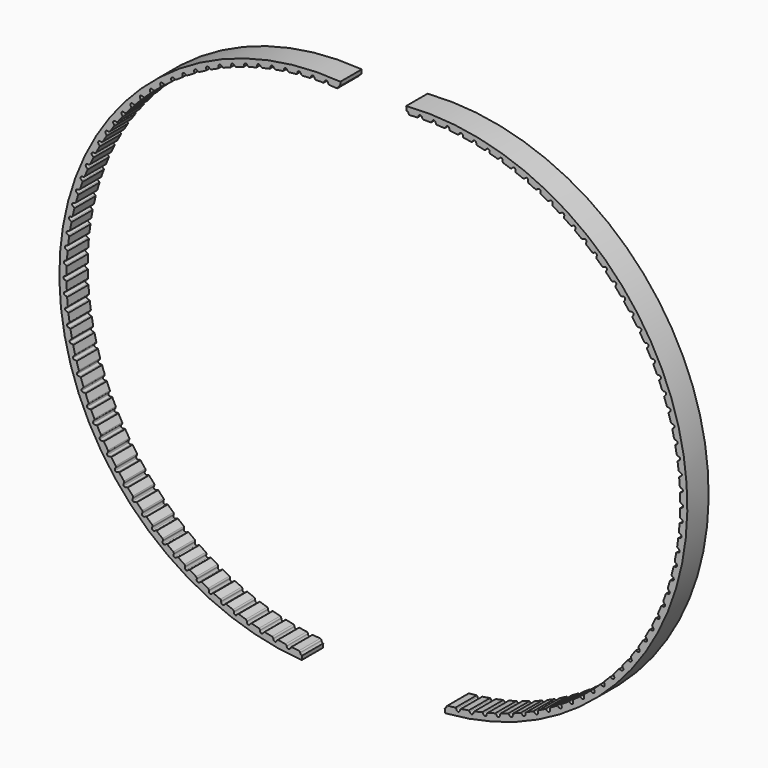
from build123d import *

# Parameters (mm, degrees)
F1_DEPTH = 10


with BuildPart() as f1:
    # F0 (on Front) → F1 (new body)
    with BuildSketch(Plane.XZ):
        with BuildLine():
            Line((26.7709992604, -112.2110329628), (26.9231018809, -113.7521742785))
            ThreePointArc((26.9231018809, -113.7521742785), (117.5491132953, -8.5425317569), (12.3413948205, 82.085713276))
            Line((12.3413948205, 82.085713276), (12.4561209293, 80.541834318))
            add(Edge.make_bspline(
                [(12.4893397314, 80.5442623854), (12.4726995917, 80.5435824122), (12.4561209293, 80.541834318)],
                knots=[0, 0, 0, 0.0462586498, 0.0462586498, 0.0462586498], degree=2, weights=[1, 0.9997325291, 1]))
            add(Edge.make_bspline(
                [(13.2469133122, 79.8186685051), (13.0734741082, 80.5681321176), (12.4893397314, 80.5442623854)],
                knots=[4.9589597933, 4.9589597933, 4.9589597933, 6.2831853072, 6.2831853072, 6.2831853072], degree=2, weights=[1, 0.7886951024, 1]))
            ThreePointArc((13.2469133122, 79.8186685051), (13.3681260333, 79.6168699252), (13.5459222227, 79.4625854295))
            ThreePointArc((13.5459222227, 79.4625854295), (14.9822503124, 79.543430276), (16.4196333325, 79.6026276076))
            ThreePointArc((16.4196333325, 79.6026276076), (16.7218000872, 79.7628192719), (16.9214265788, 80.0405158344))
            add(Edge.make_bspline(
                [(17.6288884757, 80.7877164189), (17.067763984, 80.7946784393), (16.9214265788, 80.0405158344)],
                knots=[0, 0, 0, 1.3242255138, 1.3242255138, 1.3242255138], degree=2, weights=[1, 0.7886951024, 1]))
            add(Edge.make_bspline(
                [(18.3467706598, 80.0228312124), (18.2134653554, 80.7804634185), (17.6288884757, 80.7877164189)],
                knots=[4.9589597933, 4.9589597933, 4.9589597933, 6.2831853072, 6.2831853072, 6.2831853072], degree=2, weights=[1, 0.7886951024, 1]))
            ThreePointArc((18.3467706598, 80.0228312124), (18.4570714263, 79.8148674379), (18.6264042679, 79.6513389103))
            ThreePointArc((18.6264042679, 79.6513389103), (20.0649993822, 79.6556246704), (21.5034958039, 79.6382374509))
            ThreePointArc((21.5034958039, 79.6382374509), (21.8137600451, 79.782120103), (22.0278832202, 80.048798529))
            add(Edge.make_bspline(
                [(22.7741100685, 80.7572874421), (22.2141513948, 80.794103861), (22.0278832202, 80.048798529)],
                knots=[0, 0, 0, 1.3242255138, 1.3242255138, 1.3242255138], degree=2, weights=[1, 0.7886951024, 1]))
            add(Edge.make_bspline(
                [(23.4502659409, 79.9552790596), (23.3574724044, 80.7189322685), (22.7741100685, 80.7572874421)],
                knots=[4.9589597933, 4.9589597933, 4.9589597933, 6.2831853072, 6.2831853072, 6.2831853072], degree=2, weights=[1, 0.7886951024, 1]))
            ThreePointArc((23.4502659409, 79.9552790596), (23.5493420932, 79.7417395864), (23.7097315948, 79.5694305664))
            ThreePointArc((23.7097315948, 79.5694305664), (25.1465158795, 79.4971450915), (26.5820481283, 79.403222607))
            ThreePointArc((26.5820481283, 79.403222607), (26.8995303784, 79.5303883959), (27.1275432816, 79.7852927563))
            add(Edge.make_bspline(
                [(27.9104198201, 80.4530617092), (27.3532142281, 80.5196281665), (27.1275432816, 79.7852927563)],
                knots=[0, 0, 0, 1.3242255138, 1.3242255138, 1.3242255138], degree=2, weights=[1, 0.7886951024, 1]))
            add(Edge.make_bspline(
                [(28.5429327435, 79.6162035306), (28.4909140083, 80.3837130843), (27.9104198201, 80.4530617092)],
                knots=[4.9589597933, 4.9589597933, 4.9589597933, 6.2831853072, 6.2831853072, 6.2831853072], degree=2, weights=[1, 0.7886951024, 1]))
            ThreePointArc((28.5429327435, 79.6162035306), (28.6305034396, 79.3976936595), (28.7814949597, 79.2170925757))
            ThreePointArc((28.7814949597, 79.2170925757), (30.2123956936, 79.068440767), (31.6408945975, 78.8982492508))
            ThreePointArc((31.6408945975, 78.8982492508), (31.9646949184, 79.0083377113), (32.2059512224, 79.2507454521))
            add(Edge.make_bspline(
                [(33.0232583026, 79.8759015811), (32.4703852521, 79.9720293869), (32.2059512224, 79.2507454521)],
                knots=[0, 0, 0, 1.3242255138, 1.3242255138, 1.3242255138], degree=2, weights=[1, 0.7886951024, 1]))
            add(Edge.make_bspline(
                [(33.6103353504, 79.0065657718), (33.5992388692, 79.7757560812), (33.0232583026, 79.8759015811)],
                knots=[4.9589597933, 4.9589597933, 4.9589597933, 6.2831853072, 6.2831853072, 6.2831853072], degree=2, weights=[1, 0.7886951024, 1]))
            ThreePointArc((33.6103353504, 79.0065657718), (33.6861523616, 78.7837048928), (33.8273178983, 78.5953236786))
            ThreePointArc((33.8273178983, 78.5953236786), (35.2482790378, 78.3707269057), (36.6656953614, 78.1247487843))
            ThreePointArc((36.6656953614, 78.1247487843), (36.9948959061, 78.2174478586), (37.2487117436, 78.4466718487))
            add(Edge.make_bspline(
                [(38.0981326197, 79.0274430809), (37.5511592895, 79.1528597505), (37.2487117436, 78.4466718487)],
                knots=[0, 0, 0, 1.3242255138, 1.3242255138, 1.3242255138], degree=2, weights=[1, 0.7886951024, 1]))
            add(Edge.make_bspline(
                [(38.6381096582, 78.1280938677), (38.6679668853, 78.8967845792), (38.0981326197, 79.0274430809)],
                knots=[4.9589597933, 4.9589597933, 4.9589597933, 6.2831853072, 6.2831853072, 6.2831853072], degree=2, weights=[1, 0.7886951024, 1]))
            ThreePointArc((38.6381096582, 78.1280938677), (38.701958073, 77.9015137042), (38.8328974773, 77.7058863467))
            ThreePointArc((38.8328974773, 77.7058863467), (40.2398911537, 77.4059812535), (41.6422070764, 77.0849137786))
            ThreePointArc((41.6422070764, 77.0849137786), (41.9758746901, 77.1599607011), (42.2415305926, 77.3753511802))
            add(Edge.make_bspline(
                [(43.1206574889, 77.9100912564), (42.5811343343, 78.0644412826), (42.2415305926, 77.3753511802)],
                knots=[0, 0, 0, 1.3242255138, 1.3242255138, 1.3242255138], degree=2, weights=[1, 0.7886951024, 1]))
            add(Edge.make_bspline(
                [(43.6120038946, 76.9832779424), (43.6827301963, 77.7492901187), (43.1206574889, 77.9100912564)],
                knots=[4.9589597933, 4.9589597933, 4.9589597933, 6.2831853072, 6.2831853072, 6.2831853072], degree=2, weights=[1, 0.7886951024, 1]))
            ThreePointArc((43.6120038946, 76.9832779424), (43.6637027276, 76.7536207604), (43.7840448375, 76.5513017865))
            ThreePointArc((43.7840448375, 76.5513017865), (45.1730827744, 76.1769384867), (46.5563232794, 75.7816917588))
            ThreePointArc((46.5563232794, 75.7816917588), (46.8935121449, 75.838873801), (47.1702550819, 76.0398202213))
            add(Edge.make_bspline(
                [(48.0765960177, 76.5270133627), (47.5460523757, 76.7098592236), (47.1702550819, 76.0398202213)],
                knots=[0, 0, 0, 1.3242255138, 1.3242255138, 1.3242255138], degree=2, weights=[1, 0.7886951024, 1]))
            add(Edge.make_bspline(
                [(48.5179190157, 75.5753631009), (48.6293139108, 76.3365253972), (48.0765960177, 76.5270133627)],
                knots=[4.9589597933, 4.9589597933, 4.9589597933, 6.2831853072, 6.2831853072, 6.2831853072], degree=2, weights=[1, 0.7886951024, 1]))
            ThreePointArc((48.5179190157, 75.5753631009), (48.5573217211, 75.3432798887), (48.6667254138, 75.1348427936))
            ThreePointArc((48.6667254138, 75.1348427936), (50.0338702322, 74.6870824605), (51.394114374, 74.2187768496))
            ThreePointArc((51.394114374, 74.2187768496), (51.733868693, 74.2579319226), (52.0209142065, 74.4438646797))
            add(Edge.make_bspline(
                [(52.95190006, 74.8821298844), (52.4318398141, 75.0929532836), (52.0209142065, 74.4438646797)],
                knots=[0, 0, 0, 1.3242255138, 1.3242255138, 1.3242255138], degree=2, weights=[1, 0.7886951024, 1]))
            add(Edge.make_bspline(
                [(53.3419486724, 73.9083402309), (53.4936963997, 74.66249505), (52.95190006, 74.8821298844)],
                knots=[4.9589597933, 4.9589597933, 4.9589597933, 6.2831853072, 6.2831853072, 6.2831853072], degree=2, weights=[1, 0.7886951024, 1]))
            ThreePointArc((53.3419486724, 73.9083402309), (53.3689435588, 73.6744888536), (53.4670987176, 73.4605244748))
            ThreePointArc((53.4670987176, 73.4605244748), (54.8084750971, 72.9406363338), (56.1418671159, 72.4005993029))
            ThreePointArc((56.1418671159, 72.4005993029), (56.4832238177, 72.4216164175), (56.7797582461, 72.5920084648))
            add(Edge.make_bspline(
                [(57.7327500366, 72.9801034225), (57.2246473542, 73.2183067581), (56.7797582461, 72.5920084648)],
                knots=[0, 0, 0, 1.3242255138, 1.3242255138, 1.3242255138], degree=2, weights=[1, 0.7886951024, 1]))
            add(Edge.make_bspline(
                [(58.0704186282, 71.9869346898), (58.2620890425, 72.7319442979), (57.7327500366, 72.9801034225)],
                knots=[4.9589597933, 4.9589597933, 4.9589597933, 6.2831853072, 6.2831853072, 6.2831853072], degree=2, weights=[1, 0.7886951024, 1]))
            ThreePointArc((58.0704186282, 71.9869346898), (58.0849291759, 71.7519780244), (58.1715575693, 71.5330928673))
            ThreePointArc((58.1715575693, 71.5330928673), (59.4833632327, 70.9425505978), (60.7861234839, 70.3323129406))
            ThreePointArc((60.7861234839, 70.3323129406), (61.128114956, 70.3351325215), (61.4332977402, 70.4895008642))
            add(Edge.make_bspline(
                [(62.405594109, 70.8263254775), (61.9108892623, 71.0912335363), (61.4332977402, 70.4895008642)],
                knots=[0, 0, 0, 1.3242255138, 1.3242255138, 1.3242255138], degree=2, weights=[1, 0.7886951024, 1]))
            add(Edge.make_bspline(
                [(62.6899255215, 69.8165929103), (62.9209753122, 70.5503454968), (62.405594109, 70.8263254775)],
                knots=[4.9589597933, 4.9589597933, 4.9589597933, 6.2831853072, 6.2831853072, 6.2831853072], degree=2, weights=[1, 0.7886951024, 1]))
            ThreePointArc((62.6899255215, 69.8165929103), (62.6919105986, 69.5811969672), (62.7667666691, 69.3580114854))
            ThreePointArc((62.7667666691, 69.3580114854), (64.0452831608, 68.6984890436), (65.313718829, 68.019780545))
            ThreePointArc((65.313718829, 68.019780545), (65.6553756593, 68.0043945998), (65.9683417255, 68.1423016641))
            add(Edge.make_bspline(
                [(66.957186593, 68.4269011671), (66.4772818766, 68.7177630384), (65.9683417255, 68.1423016641)],
                knots=[0, 0, 0, 1.3242255138, 1.3242255138, 1.3242255138], degree=2, weights=[1, 0.7886951024, 1]))
            add(Edge.make_bspline(
                [(67.1873748581, 67.4034669621), (67.4571490893, 68.1238826255), (66.957186593, 68.4269011671)],
                knots=[4.9589597933, 4.9589597933, 4.9589597933, 6.2831853072, 6.2831853072, 6.2831853072], degree=2, weights=[1, 0.7886951024, 1]))
            ThreePointArc((67.1873748581, 67.4034669621), (67.1768288376, 67.1682989965), (67.2397003976, 66.9414458336))
            ThreePointArc((67.2397003976, 66.9414458336), (68.4813036236, 66.2148127076), (69.7118191901, 65.4695572405))
            ThreePointArc((69.7118191901, 65.4695572405), (70.0521729152, 65.4360093823), (70.3720351271, 65.5570642556))
            add(Edge.make_bspline(
                [(71.374625505, 65.7886319201), (70.910881261, 66.1046231243), (70.3720351271, 65.5570642556)],
                knots=[0, 0, 0, 1.3242255138, 1.3242255138, 1.3242255138], degree=2, weights=[1, 0.7886951024, 1]))
            add(Edge.make_bspline(
                [(71.5500181292, 64.7543971128), (71.8577520966, 65.4594337566), (71.374625505, 65.7886319201)],
                knots=[4.9589597933, 4.9589597933, 4.9589597933, 6.2831853072, 6.2831853072, 6.2831853072], degree=2, weights=[1, 0.7886951024, 1]))
            ThreePointArc((71.5500181292, 64.7543971128), (71.526970905, 64.5201237339), (71.5776797382, 64.2902459297))
            ThreePointArc((71.5776797382, 64.2902459297), (72.7788502393, 63.4985618401), (73.9679576739, 62.6888719122))
            ThreePointArc((73.9679576739, 62.6888719122), (74.3060435243, 62.637257236), (74.6318951978, 62.7411167752))
            add(Edge.make_bspline(
                [(75.6453891347, 62.9189961974), (75.1991198965, 63.2592210232), (74.6318951978, 62.7411167752)],
                knots=[0, 0, 0, 1.3242255138, 1.3242255138, 1.3242255138], degree=2, weights=[1, 0.7886951024, 1]))
            add(Edge.make_bspline(
                [(75.7654889483, 61.8768924386), (76.1103103466, 62.56455156), (75.6453891347, 62.9189961974)],
                knots=[4.9589597933, 4.9589597933, 4.9589597933, 6.2831853072, 6.2831853072, 6.2831853072], degree=2, weights=[1, 0.7886951024, 1]))
            ThreePointArc((75.7654889483, 61.8768924386), (75.7300058504, 61.6441777198), (75.768408217, 61.4119268881))
            ThreePointArc((75.768408217, 61.4119268881), (76.9257411449, 60.5574359493), (78.0700697936, 59.6856067146))
            ThreePointArc((78.0700697936, 59.6856067146), (78.4049294281, 59.6160715279), (78.7358469011, 59.7024413318))
            add(Edge.make_bspline(
                [(79.7573715384, 59.8261282932), (79.3298423047, 60.1896223363), (78.7358469011, 59.7024413318)],
                knots=[0, 0, 0, 1.3242255138, 1.3242255138, 1.3242255138], degree=2, weights=[1, 0.7886951024, 1]))
            add(Edge.make_bspline(
                [(79.8218381056, 58.7791095393), (80.202769501, 59.4474418937), (79.7573715384, 59.8261282932)],
                knots=[4.9589597933, 4.9589597933, 4.9589597933, 6.2831853072, 6.2831853072, 6.2831853072], degree=2, weights=[1, 0.7886951024, 1]))
            ThreePointArc((79.8218381056, 58.7791095393), (79.7740197146, 58.5486131357), (79.800006759, 58.3146476167))
            ThreePointArc((79.800006759, 58.3146476167), (80.9102215278, 57.3997719761), (82.0065276666, 56.4682747294))
            ThreePointArc((82.0065276666, 56.4682747294), (82.3372118892, 56.3810161372), (82.6722571402, 56.4496513811))
            add(Edge.make_bspline(
                [(83.6989168554, 56.5187952777), (83.2913395042, 56.9045281747), (82.6722571402, 56.4496513811)],
                knots=[0, 0, 0, 1.3242255138, 1.3242255138, 1.3242255138], degree=2, weights=[1, 0.7886951024, 1]))
            add(Edge.make_bspline(
                [(83.7075674386, 55.4698294171), (84.1235290397, 56.1169405438), (83.6989168554, 56.5187952777)],
                knots=[4.9589597933, 4.9589597933, 4.9589597933, 6.2831853072, 6.2831853072, 6.2831853072], degree=2, weights=[1, 0.7886951024, 1]))
            ThreePointArc((83.7075674386, 55.4698294171), (83.6475493009, 55.2422046958), (83.66104736, 55.00718769))
            ThreePointArc((83.66104736, 55.00718769), (84.7209969453, 54.0345206621), (85.7661729753, 53.0459958335))
            ThreePointArc((85.7661729753, 53.0459958335), (86.0917444257, 52.9412611798), (86.4299677326, 52.9919673097))
            add(Edge.make_bspline(
                [(87.4588523471, 53.0063721455), (87.0723822008, 53.4132504946), (86.4299677326, 52.9919673097)],
                knots=[0, 0, 0, 1.3242255138, 1.3242255138, 1.3242255138], degree=2, weights=[1, 0.7886951024, 1]))
            add(Edge.make_bspline(
                [(87.4116624254, 51.9584325859), (87.8614751438, 52.5824881781), (87.4588523471, 53.0063721455)],
                knots=[4.9589597933, 4.9589597933, 4.9589597933, 6.2831853072, 6.2831853072, 6.2831853072], degree=2, weights=[1, 0.7886951024, 1]))
            ThreePointArc((87.4116624254, 51.9584325859), (87.3396146689, 51.7343247739), (87.340585481, 51.4989224627))
            ThreePointArc((87.340585481, 51.4989224627), (88.3472653405, 50.4712211778), (89.3383485968, 49.4284708483))
            ThreePointArc((89.3383485968, 49.4284708483), (89.6578844073, 49.3065570148), (89.9983270394, 49.3391902988))
            add(Edge.make_bspline(
                [(91.0265200679, 49.2988152416), (90.662252618, 49.725685702), (89.9983270394, 49.3391902988)],
                knots=[0, 0, 0, 1.3242255138, 1.3242255138, 1.3242255138], degree=2, weights=[1, 0.7886951024, 1]))
            add(Edge.make_bspline(
                [(90.9236234062, 48.2548724815), (91.406012199, 48.854103586), (91.0265200679, 49.2988152416)],
                knots=[4.9589597933, 4.9589597933, 4.9589597933, 6.2831853072, 6.2831853072, 6.2831853072], degree=2, weights=[1, 0.7886951024, 1]))
            ThreePointArc((90.9236234062, 48.2548724815), (90.8397502582, 48.0349168368), (90.8281910714, 47.7997964936))
            ThreePointArc((90.8281910714, 47.7997964936), (91.7787476617, 46.7199740827), (92.712928811, 45.6259540414))
            ThreePointArc((92.712928811, 45.6259540414), (93.0255232227, 45.4872066061), (93.3672201583, 45.5016745415))
            add(Edge.make_bspline(
                [(94.391807076, 45.406634039), (94.0507748783, 45.8522866), (93.3672201583, 45.5016745415)],
                knots=[0, 0, 0, 1.3242255138, 1.3242255138, 1.3242255138], degree=2, weights=[1, 0.7886951024, 1]))
            add(Edge.make_bspline(
                [(94.2334953461, 44.3696472476), (94.7470928298, 44.9423552785), (94.391807076, 45.406634039)],
                knots=[4.9589597933, 4.9589597933, 4.9589597933, 6.2831853072, 6.2831853072, 6.2831853072], degree=2, weights=[1, 0.7886951024, 1]))
            ThreePointArc((94.2334953461, 44.3696472476), (94.1380345541, 44.1544672584), (94.1139781342, 43.9202953573))
            ThreePointArc((94.1139781342, 43.9202953573), (95.0057169994, 42.7914126943), (95.8803480038, 41.6492240599))
            ThreePointArc((95.8803480038, 41.6492240599), (96.1851149338, 41.4940363175), (96.5270975959, 41.4902978934))
            add(Edge.make_bspline(
                [(97.5451740999, 41.3408613481), (97.228343847, 41.804032759), (96.5270975959, 41.4902978934)],
                knots=[0, 0, 0, 1.3242255138, 1.3242255138, 1.3242255138], degree=2, weights=[1, 0.7886951024, 1]))
            add(Edge.make_bspline(
                [(97.3318960536, 40.3137699771), (97.8752463803, 40.8583315314), (97.5451740999, 41.3408613481)],
                knots=[4.9589597933, 4.9589597933, 4.9589597933, 6.2831853072, 6.2831853072, 6.2831853072], degree=2, weights=[1, 0.7886951024, 1]))
            ThreePointArc((97.3318960536, 40.3137699771), (97.2251182115, 40.1039755944), (97.188632749, 39.8714159211))
            ThreePointArc((97.188632749, 39.8714159211), (98.0190261584, 38.6966729466), (98.8316277813, 37.5095533768))
            ThreePointArc((98.8316277813, 37.5095533768), (99.1277033346, 37.3383652239), (99.4690023361, 37.3164310372))
            add(Edge.make_bspline(
                [(100.477682578, 37.1130220433), (100.1859523598, 37.5923993945), (99.4690023361, 37.3164310372)],
                knots=[0, 0, 0, 1.3242255138, 1.3242255138, 1.3242255138], degree=2, weights=[1, 0.7886951024, 1]))
            add(Edge.make_bspline(
                [(100.210042775, 36.0987374948), (100.7816057592, 36.6136089536), (100.477682578, 37.1130220433)],
                knots=[4.9589597933, 4.9589597933, 4.9589597933, 6.2831853072, 6.2831853072, 6.2831853072], degree=2, weights=[1, 0.7886951024, 1]))
            ThreePointArc((100.210042775, 36.0987374948), (100.0922505564, 35.8949234035), (100.0434394732, 35.6646351738))
            ThreePointArc((100.0434394732, 35.6646351738), (100.8101335865, 34.4473618244), (101.5584024203, 33.2186763386))
            ThreePointArc((101.5584024203, 33.2186763386), (101.8449473387, 33.0319730265), (102.1845952305, 32.9919052521))
            add(Edge.make_bspline(
                [(103.1810199964, 32.7351003945), (102.915216754, 33.2293248387), (102.1845952305, 32.9919052521)],
                knots=[0, 0, 0, 1.3242255138, 1.3242255138, 1.3242255138], degree=2, weights=[1, 0.7886951024, 1]))
            add(Edge.make_bspline(
                [(102.859777091, 31.7364977683), (103.4579325753, 32.2202196724), (103.1810199964, 32.7351003945)],
                knots=[4.9589597933, 4.9589597933, 4.9589597933, 6.2831853072, 6.2831853072, 6.2831853072], degree=2, weights=[1, 0.7886951024, 1]))
            ThreePointArc((102.859777091, 31.7364977683), (102.7313043905, 31.5392417016), (102.6703060471, 31.3118776924))
            ThreePointArc((102.6703060471, 31.3118776924), (103.3711275865, 30.0555244616), (104.0529425819, 28.7887559024))
            ThreePointArc((104.0529425819, 28.7887559024), (104.3291446226, 28.587066662), (104.6661786359, 28.5289788763))
            add(Edge.make_bspline(
                [(105.6475234517, 28.2195060962), (105.4084006331, 28.7271767006), (104.6661786359, 28.5289788763)],
                knots=[0, 0, 0, 1.3242255138, 1.3242255138, 1.3242255138], degree=2, weights=[1, 0.7886951024, 1]))
            add(Edge.make_bspline(
                [(105.2735880416, 27.2394160399), (105.8966404893, 27.6906172271), (105.6475234517, 28.2195060962)],
                knots=[4.9589597933, 4.9589597933, 4.9589597933, 6.2831853072, 6.2831853072, 6.2831853072], degree=2, weights=[1, 0.7886951024, 1]))
            ThreePointArc((105.2735880416, 27.2394160399), (105.1347990292, 27.0492771416), (105.061786332, 26.8254818409))
            ThreePointArc((105.061786332, 26.8254818409), (105.6947487426, 25.5336099985), (106.3081772209, 24.2323491589))
            ThreePointArc((106.3081772209, 24.2323491589), (106.5732534592, 24.0162457003), (106.9067182345, 23.9403025595))
            add(Edge.make_bspline(
                [(107.8702013716, 23.5790390911), (107.6584367965, 24.0987168083), (106.9067182345, 23.9403025595)],
                knots=[0, 0, 0, 1.3242255138, 1.3242255138, 1.3242255138], degree=2, weights=[1, 0.7886951024, 1]))
            add(Edge.make_bspline(
                [(107.4446334175, 22.6202397764), (108.0908167187, 23.037641268), (107.8702013716, 23.5790390911)],
                knots=[4.9589597933, 4.9589597933, 4.9589597933, 6.2831853072, 6.2831853072, 6.2831853072], degree=2, weights=[1, 0.7886951024, 1]))
            ThreePointArc((107.4446334175, 22.6202397764), (107.2959215057, 22.437757016), (107.211101417, 22.2181647958))
            ThreePointArc((107.211101417, 22.2181647958), (107.7744104982, 20.8944362928), (108.3177136298, 19.5623717382))
            ThreePointArc((108.3177136298, 19.5623717382), (108.5709126784, 19.33246663), (108.8998629735, 19.2388834032))
            add(Edge.make_bspline(
                [(109.8427533343, 18.826853287), (109.6589472724, 19.357065034), (108.8998629735, 19.2388834032)],
                knots=[0, 0, 0, 1.3242255138, 1.3242255138, 1.3242255138], degree=2, weights=[1, 0.7886951024, 1]))
            add(Edge.make_bspline(
                [(109.3667591547, 17.8920625349), (110.0342416327, 18.2744811608), (109.8427533343, 18.826853287)],
                knots=[4.9589597933, 4.9589597933, 4.9589597933, 6.2831853072, 6.2831853072, 6.2831853072], degree=2, weights=[1, 0.7886951024, 1]))
            ThreePointArc((109.3667591547, 17.8920625349), (109.2085458835, 17.7177531794), (109.1121588352, 17.5029864978))
            ThreePointArc((109.1121588352, 17.5029864978), (109.6042178262, 16.1511535866), (110.0758555592, 14.7920611985))
            ThreePointArc((110.0758555592, 14.7920611985), (110.3164596978, 14.5490061318), (110.6399630674, 14.4380480907))
            add(Edge.make_bspline(
                [(111.5595879267, 13.9764192711), (111.4042613962, 14.515662105), (110.6399630674, 14.4380480907)],
                knots=[0, 0, 0, 1.3242255138, 1.3242255138, 1.3242255138], degree=2, weights=[1, 0.7886951024, 1]))
            add(Edge.make_bspline(
                [(111.0345167789, 13.0682868473), (111.7214063821, 13.4146386005), (111.5595879267, 13.9764192711)],
                knots=[4.9589597933, 4.9589597933, 4.9589597933, 6.2831853072, 6.2831853072, 6.2831853072], degree=2, weights=[1, 0.7886951024, 1]))
            ThreePointArc((111.0345167789, 13.0682868473), (110.8672506211, 12.9026449956), (110.7595698327, 12.6933126321))
            ThreePointArc((110.7595698327, 12.6933126321), (111.1789839388, 11.3172072299), (111.5776193649, 9.9349395034))
            ThreePointArc((111.5776193649, 9.9349395034), (111.804946575, 9.6794234441), (112.1220860136, 9.5514051115))
            add(Edge.make_bspline(
                [(113.0158385948, 9.0414861253), (112.8894318857, 9.5882315038), (112.1220860136, 9.5514051115)],
                knots=[0, 0, 0, 1.3242255138, 1.3242255138, 1.3242255138], degree=2, weights=[1, 0.7886951024, 1]))
            add(Edge.make_bspline(
                [(112.44317885, 8.16258623), (113.1475285151, 8.4718893389), (113.0158385948, 9.0414861253)],
                knots=[4.9589597933, 4.9589597933, 4.9589597933, 6.2831853072, 6.2831853072, 6.2831853072], degree=2, weights=[1, 0.7886951024, 1]))
            ThreePointArc((112.44317885, 8.16258623), (112.2673339396, 8.0060814119), (112.148664644, 7.8027767418))
            ThreePointArc((112.148664644, 7.8027767418), (112.4942449904, 6.4062995688), (112.8187481342, 5.0047746921))
            ThreePointArc((112.8187481342, 5.0047746921), (113.032154032, 4.7375219283), (113.3420305734, 4.592806186))
            add(Edge.make_bspline(
                [(114.2073774379, 4.036042454), (114.1102488636, 4.5887405678), (113.3420305734, 4.592806186)],
                knots=[0, 0, 0, 1.3242255138, 1.3242255138, 1.3242255138], degree=2, weights=[1, 0.7886951024, 1]))
            add(Edge.make_bspline(
                [(113.5887523623, 3.1888664244), (114.3085655337, 3.4602441355), (114.2073774379, 4.036042454)],
                knots=[4.9589597933, 4.9589597933, 4.9589597933, 6.2831853072, 6.2831853072, 6.2831853072], degree=2, weights=[1, 0.7886951024, 1]))
            ThreePointArc((113.5887523623, 3.1888664244), (113.4048271509, 3.0419422698), (113.2755057291, 2.8452415823))
            ThreePointArc((113.2755057291, 2.8452415823), (113.5462727306, 1.4323511048), (113.7957237527, 0.0155418523))
            ThreePointArc((113.7957237527, 0.0155418523), (113.9946034161, -0.262690059), (114.2963386816, -0.4236929986))
            add(Edge.make_bspline(
                [(115.1308269095, -1.025723269), (115.0632517917, -0.4686391026), (114.2963386816, -0.4236929986)],
                knots=[0, 0, 0, 1.3242255138, 1.3242255138, 1.3242255138], degree=2, weights=[1, 0.7886951024, 1]))
            add(Edge.make_bspline(
                [(114.4679900631, -1.8387740204), (115.2012263522, -1.6060909565), (115.1308269095, -1.025723269)],
                knots=[4.9589597933, 4.9589597933, 4.9589597933, 6.2831853072, 6.2831853072, 6.2831853072], degree=2, weights=[1, 0.7886951024, 1]))
            ThreePointArc((114.4679900631, -1.8387740204), (114.2765059067, -1.975701039), (114.1368989343, -2.1652401745))
            ThreePointArc((114.1368989343, -2.1652401745), (114.3320850726, -3.5905389649), (114.5057768769, -5.0186164935))
            ThreePointArc((114.5057768769, -5.0186164935), (114.6895665599, -5.3070388737), (114.9823052481, -5.4838726301))
            add(Edge.make_bspline(
                [(115.7835693919, -6.1294629188), (115.7457392795, -5.5695718155), (114.9823052481, -5.4838726301)],
                knots=[0, 0, 0, 1.3242255138, 1.3242255138, 1.3242255138], degree=2, weights=[1, 0.7886951024, 1]))
            add(Edge.make_bspline(
                [(115.0783996578, -6.9060837114), (115.8229806267, -6.7127548602), (115.7835693919, -6.1294629188)],
                knots=[4.9589597933, 4.9589597933, 4.9589597933, 6.2831853072, 6.2831853072, 6.2831853072], degree=2, weights=[1, 0.7886951024, 1]))
            ThreePointArc((115.0783996578, -6.9060837114), (114.8798993389, -7.0326254595), (114.7304025471, -7.2144657735))
            ThreePointArc((114.7304025471, -7.2144657735), (114.8494545459, -8.6481327126), (114.9468947841, -10.0834304763))
            ThreePointArc((114.9468947841, -10.0834304763), (115.1150735148, -10.3812257609), (115.3979858261, -10.5733890797))
            add(Edge.make_bspline(
                [(116.1637546156, -11.2607093909), (116.1557767421, -10.6995984228), (115.3979858261, -10.5733890797)],
                knots=[0, 0, 0, 1.3242255138, 1.3242255138, 1.3242255138], degree=2, weights=[1, 0.7886951024, 1]))
            add(Edge.make_bspline(
                [(115.418250874, -11.9986988085), (116.1720659269, -11.8452721817), (116.1637546156, -11.2607093909)],
                knots=[4.9589597933, 4.9589597933, 4.9589597933, 6.2831853072, 6.2831853072, 6.2831853072], degree=2, weights=[1, 0.7886951024, 1]))
            ThreePointArc((115.418250874, -11.9986988085), (115.2132970634, -12.1144965898), (115.0543342171, -12.2881226364))
            ThreePointArc((115.0543342171, -12.2881226364), (115.0969146104, -13.7260938394), (115.1178270776, -15.1645433308))
            ThreePointArc((115.1178270776, -15.1645433308), (115.2699181352, -15.4708673866), (115.5422021239, -15.6778155601))
            add(Edge.make_bspline(
                [(116.2703049042, -16.4049176096), (116.2922018839, -15.8441773067), (115.5422021239, -15.6778155601)],
                knots=[0, 0, 0, 1.3242255138, 1.3242255138, 1.3242255138], degree=2, weights=[1, 0.7886951024, 1]))
            add(Edge.make_bspline(
                [(115.4865803664, -17.1021837412), (116.2474927328, -16.9890942431), (116.2703049042, -16.4049176096)],
                knots=[4.9589597933, 4.9589597933, 4.9589597933, 6.2831853072, 6.2831853072, 6.2831853072], degree=2, weights=[1, 0.7886951024, 1]))
            ThreePointArc((115.4865803664, -17.1021837412), (115.2757540281, -17.2069093142), (115.1077757246, -17.3718289315))
            ThreePointArc((115.1077757246, -17.3718289315), (115.0737638138, -18.8100283128), (115.0180892313, -20.2475520905))
            ThreePointArc((115.0180892313, -20.2475520905), (115.1536614971, -20.5615366088), (115.4145453447, -20.7826830197))
            add(Edge.make_bspline(
                [(116.1029182293, -21.5475057578), (116.1546279928, -20.9887255995), (115.4145453447, -20.7826830197)],
                knots=[0, 0, 0, 1.3242255138, 1.3242255138, 1.3242255138], degree=2, weights=[1, 0.7886951024, 1]))
            add(Edge.make_bspline(
                [(115.2831944478, -22.2020721267), (116.0490472388, -22.1296403219), (116.1029182293, -21.5475057578)],
                knots=[4.9589597933, 4.9589597933, 4.9589597933, 6.2831853072, 6.2831853072, 6.2831853072], degree=2, weights=[1, 0.7886951024, 1]))
            ThreePointArc((115.2831944478, -22.2020721267), (115.0670931918, -22.2954286355), (114.890575584, -22.4511743409))
            ThreePointArc((114.890575584, -22.4511743409), (114.7800677795, -23.8855251681), (114.647963963, -25.3180484148))
            ThreePointArc((114.647963963, -25.3180484148), (114.7666331427, -25.6388033723), (115.0153773455, -25.8735211572))
            add(Edge.make_bspline(
                [(115.6620690668, -26.6738966108), (115.7434450371, -26.11866052), (115.0153773455, -25.8735211572)],
                knots=[0, 0, 0, 1.3242255138, 1.3242255138, 1.3242255138], degree=2, weights=[1, 0.7886951024, 1]))
            add(Edge.make_bspline(
                [(114.8086696376, -27.2839077775), (115.5772919604, -27.2523389817), (115.6620690668, -26.6738966108)],
                knots=[4.9589597933, 4.9589597933, 4.9589597933, 6.2831853072, 6.2831853072, 6.2831853072], degree=2, weights=[1, 0.7886951024, 1]))
            ThreePointArc((114.8086696376, -27.2839077775), (114.5879060264, -27.3656305929), (114.4033494726, -27.5117609082))
            ThreePointArc((114.4033494726, -27.5117609082), (114.2166590207, -28.9381973581), (114.0085004329, -30.361659431))
            ThreePointArc((114.0085004329, -30.361659431), (114.1099301458, -30.6882756129), (114.3458296114, -30.9358994388))
            add(Edge.make_bspline(
                [(114.9490070514, -31.7695588566), (115.0598185595, -31.2194407105), (114.3458296114, -30.9358994388)],
                knots=[0, 0, 0, 1.3242255138, 1.3242255138, 1.3242255138], degree=2, weights=[1, 0.7886951024, 1]))
            add(Edge.make_bspline(
                [(114.0643510279, -32.3332856782), (114.8335641389, -32.3426693767), (114.9490070514, -31.7695588566)],
                knots=[4.9589597933, 4.9589597933, 4.9589597933, 6.2831853072, 6.2831853072, 6.2831853072], degree=2, weights=[1, 0.7886951024, 1]))
            ThreePointArc((114.0643510279, -32.3332856782), (113.83955084, -32.403143148), (113.6474784858, -32.539243851))
            ThreePointArc((113.6474784858, -32.539243851), (113.385134581, -33.9537225345), (113.1015112699, -35.3640884756))
            ThreePointArc((113.1015112699, -35.3640884756), (113.1854140025, -35.695640053), (113.4078000482, -35.9554680031))
            add(Edge.make_bspline(
                [(113.9657534349, -36.820048287), (114.1056863735, -36.2766074552), (113.4078000482, -35.9554680031)],
                knots=[0, 0, 0, 1.3242255138, 1.3242255138, 1.3242255138], degree=2, weights=[1, 0.7886951024, 1]))
            add(Edge.make_bspline(
                [(113.0523484708, -37.3358928187), (113.8199719519, -37.3862024122), (113.9657534349, -36.820048287)],
                knots=[4.9589597933, 4.9589597933, 4.9589597933, 6.2831853072, 6.2831853072, 6.2831853072], degree=2, weights=[1, 0.7886951024, 1]))
            ThreePointArc((113.0523484708, -37.3358928187), (112.8241489266, -37.3936869242), (112.625105222, -37.5193722227))
            ThreePointArc((112.625105222, -37.5193722227), (112.2878515066, -38.9178836463), (111.9295674333, -40.3111556202))
            ThreePointArc((111.9295674333, -40.3111556202), (111.9957053542, -40.646702774), (112.2039476026, -40.9179983378))
            add(Edge.make_bspline(
                [(112.7150953565, -41.8110487411), (112.8837530705, -41.2758256656), (112.2039476026, -40.9179983378)],
                knots=[0, 0, 0, 1.3242255138, 1.3242255138, 1.3242255138], degree=2, weights=[1, 0.7886951024, 1]))
            add(Edge.make_bspline(
                [(111.7755305973, -42.2775487653), (112.5393885363, -42.368641646), (112.7150953565, -41.8110487411)],
                knots=[4.9589597933, 4.9589597933, 4.9589597933, 6.2831853072, 6.2831853072, 6.2831853072], degree=2, weights=[1, 0.7886951024, 1]))
            ThreePointArc((111.7755305973, -42.2775487653), (111.5445785534, -42.323115683), (111.3391277094, -42.4380293083))
            ThreePointArc((111.3391277094, -42.4380293083), (110.9279201655, -43.8166092394), (110.4959909252, -45.1888378653))
            ThreePointArc((110.4959909252, -45.1888378653), (110.5441765593, -45.5274294507), (110.7376847251, -45.8094236115))
            add(Edge.make_bspline(
                [(111.2005779424, -46.7284126857), (111.3974823532, -46.2029245145), (110.7376847251, -45.8094236115)],
                knots=[0, 0, 0, 1.3242255138, 1.3242255138, 1.3242255138], degree=2, weights=[1, 0.7886951024, 1]))
            add(Edge.make_bspline(
                [(110.2375166866, -47.1442458575), (110.9954438452, -47.2758638127), (111.2005779424, -46.7284126857)],
                knots=[4.9589597933, 4.9589597933, 4.9589597933, 6.2831853072, 6.2831853072, 6.2831853072], degree=2, weights=[1, 0.7886951024, 1]))
            ThreePointArc((110.2375166866, -47.1442458575), (110.0044668015, -47.1774564229), (109.7931911908, -47.2812726399))
            ThreePointArc((109.7931911908, -47.2812726399), (109.3091954311, -48.6360133439), (108.8048453741, -49.9833088908))
            ThreePointArc((108.8048453741, -49.9833088908), (108.8349421339, -50.323985133), (109.0131676972, -50.6158785478))
            add(Edge.make_bspline(
                [(109.4264942568, -51.5582013185), (109.6510872174, -51.043937605), (109.0131676972, -50.6158785478)],
                knots=[0, 0, 0, 1.3242255138, 1.3242255138, 1.3242255138], degree=2, weights=[1, 0.7886951024, 1]))
            add(Edge.make_bspline(
                [(108.442666406, -51.9221889136), (109.1925143574, -52.0939588578), (109.4264942568, -51.5582013185)],
                knots=[4.9589597933, 4.9589597933, 4.9589597933, 6.2831853072, 6.2831853072, 6.2831853072], degree=2, weights=[1, 0.7886951024, 1]))
            ThreePointArc((108.442666406, -51.9221889136), (108.208179285, -51.9429489878), (107.9916777913, -52.0353735182))
            ThreePointArc((107.9916777913, -52.0353735182), (107.4362657543, -53.3624348354), (106.8609245156, -54.6809782475))
            ThreePointArc((106.8609245156, -54.6809782475), (106.8728470886, -55.0227734629), (107.0352848498, -55.3237387279))
            add(Edge.make_bspline(
                [(107.3978731325, -56.2867240789), (107.6495180099, -55.7851425594), (107.0352848498, -55.3237387279)],
                knots=[0, 0, 0, 1.3242255138, 1.3242255138, 1.3242255138], degree=2, weights=[1, 0.7886951024, 1]))
            add(Edge.make_bspline(
                [(106.3960674538, -56.597834335), (107.1357106725, -56.8092693676), (107.3978731325, -56.2867240789)],
                knots=[4.9589597933, 4.9589597933, 4.9589597933, 6.2831853072, 6.2831853072, 6.2831853072], degree=2, weights=[1, 0.7886951024, 1]))
            ThreePointArc((106.3960674538, -56.597834335), (106.1608077762, -56.6060850713), (105.9396940964, -56.6868559276))
            ThreePointArc((105.9396940964, -56.6868559276), (105.3144401578, -57.9824761585), (104.6697386048, -59.2685298813))
            ThreePointArc((104.6697386048, -59.2685298813), (104.6634531951, -59.6104752141), (104.8096427066, -59.9196592107))
            add(Edge.make_bspline(
                [(105.1204649167, -60.9005774554), (105.398448396, -60.4130999172), (104.8096427066, -59.9196592107)],
                knots=[0, 0, 0, 1.3242255138, 1.3242255138, 1.3242255138], degree=2, weights=[1, 0.7886951024, 1]))
            add(Edge.make_bspline(
                [(104.1035211371, -61.1579284965), (104.8308630239, -61.4084292821), (105.1204649167, -60.9005774554)],
                knots=[4.9589597933, 4.9589597933, 4.9589597933, 6.2831853072, 6.2831853072, 6.2831853072], degree=2, weights=[1, 0.7886951024, 1]))
            ThreePointArc((104.1035211371, -61.1579284965), (103.8681557718, -61.1536465073), (103.6430566768, -61.2225347358))
            ThreePointArc((103.6430566768, -61.2225347358), (102.9497331868, -62.4830413042), (102.237498796, -63.7329598787))
            ThreePointArc((102.237498796, -63.7329598787), (102.2130232204, -64.0740860478), (102.3425500921, -64.3906123602))
            add(Edge.make_bspline(
                [(102.6007251703, -65.3866829793), (102.9042592771, -64.9146912305), (102.3425500921, -64.3906123602)],
                knots=[0, 0, 0, 1.3242255138, 1.3242255138, 1.3242255138], degree=2, weights=[1, 0.7886951024, 1]))
            add(Edge.make_bspline(
                [(101.5715259273, -65.5895453161), (102.2845047527, -65.8784017829), (102.6007251703, -65.3866829793)],
                knots=[4.9589597933, 4.9589597933, 4.9589597933, 6.2831853072, 6.2831853072, 6.2831853072], degree=2, weights=[1, 0.7886951024, 1]))
            ThreePointArc((101.5715259273, -65.5895453161), (101.3367220432, -65.5727427391), (101.1082756008, -65.6295530686))
            ThreePointArc((101.1082756008, -65.6295530686), (100.3488478602, -66.8513729315), (99.5710995374, -68.0616133278))
            ThreePointArc((99.5710995374, -68.0616133278), (99.5285031745, -68.4009533739), (99.6410002485, -68.7239247741))
            add(Edge.make_bspline(
                [(99.8457963693, -69.7323242971), (100.1740207033, -69.2771562495), (99.6410002485, -68.7239247741)],
                knots=[0, 0, 0, 1.3242255138, 1.3242255138, 1.3242255138], degree=2, weights=[1, 0.7886951024, 1]))
            add(Edge.make_bspline(
                [(98.8072590402, -69.8801228941), (99.5038537882, -70.2065162471), (99.8457963693, -69.7323242971)],
                knots=[4.9589597933, 4.9589597933, 4.9589597933, 6.2831853072, 6.2831853072, 6.2831853072], degree=2, weights=[1, 0.7886951024, 1]))
            ThreePointArc((98.8072590402, -69.8801228941), (98.5736822143, -69.8508473582), (98.3425359807, -69.8954187537))
            ThreePointArc((98.3425359807, -69.8954187537), (97.51915667, -71.07508853), (96.6780990272, -72.2422201902))
            ThreePointArc((96.6780990272, -72.2422201902), (96.6175026211, -72.578812217), (96.7126510122, -72.9073132074))
            add(Edge.make_bspline(
                [(96.8634876588, -73.9251832163), (97.2154718325, -73.4881290933), (96.7126510122, -72.9073132074)],
                knots=[0, 0, 0, 1.3242255138, 1.3242255138, 1.3242255138], degree=2, weights=[1, 0.7886951024, 1]))
            add(Edge.make_bspline(
                [(95.8185560904, -74.0174991225), (96.4967921876, -74.3805041643), (96.8634876588, -73.9251832163)],
                knots=[4.9589597933, 4.9589597933, 4.9589597933, 6.2831853072, 6.2831853072, 6.2831853072], degree=2, weights=[1, 0.7886951024, 1]))
            ThreePointArc((95.8185560904, -74.0174991225), (95.5868684216, -73.9758336122), (95.353677606, -74.0080397312))
            ThreePointArc((95.353677606, -74.0080397312), (94.4686806832, -75.1422155189), (93.5666977899, -76.2629300813))
            ThreePointArc((93.5666977899, -76.2629300813), (93.4882731076, -76.5958199823), (93.5658031072, -76.9289193911))
            add(Edge.make_bspline(
                [(93.6622527169, -77.9533746229), (94.0369989928, -77.5356733018), (93.5658031072, -76.9289193911)],
                knots=[0, 0, 0, 1.3242255138, 1.3242255138, 1.3242255138], degree=2, weights=[1, 0.7886951024, 1]))
            add(Edge.make_bspline(
                [(92.6138888812, -77.9899461587), (93.2718437936, -78.388533912), (93.6622527169, -77.9533746229)],
                knots=[4.9589597933, 4.9589597933, 4.9589597933, 6.2831853072, 6.2831853072, 6.2831853072], degree=2, weights=[1, 0.7886951024, 1]))
            ThreePointArc((92.6138888812, -77.9899461587), (92.3847471134, -77.9360087795), (92.1501727205, -77.9557583303))
            ThreePointArc((92.1501727205, -77.9557583303), (91.2060668056, -79.0412251847), (90.2457154301, -80.1123458623))
            ThreePointArc((90.2457154301, -80.1123458623), (90.1496847749, -80.4405900249), (90.209376616, -80.7773436457))
            add(Edge.make_bspline(
                [(90.2511657918, -81.8054801706), (90.6476119109, -81.4083156712), (90.209376616, -80.7773436457)],
                knots=[0, 0, 0, 1.3242255138, 1.3242255138, 1.3242255138], degree=2, weights=[1, 0.7886951024, 1]))
            add(Edge.make_bspline(
                [(89.2023413899, -81.78620367), (89.838150073, -82.2192442945), (90.2511657918, -81.8054801706)],
                knots=[4.9589597933, 4.9589597933, 4.9589597933, 6.2831853072, 6.2831853072, 6.2831853072], degree=2, weights=[1, 0.7886951024, 1]))
            ThreePointArc((89.2023413899, -81.78620367), (88.9763950505, -81.7201473133), (88.7411020067, -81.7273843136))
            ThreePointArc((88.7411020067, -81.7273843136), (87.7405632706, -82.7610653611), (86.7245656332, -83.7795559459))
            ThreePointArc((86.7245656332, -83.7795559459), (86.6112012145, -84.1022239263), (86.652885694, -84.4416771943))
            add(Edge.make_bspline(
                [(86.6398959799, -85.4705806477), (87.0569181727, -85.0950787759), (86.652885694, -84.4416771943)],
                knots=[0, 0, 0, 1.3242255138, 1.3242255138, 1.3242255138], degree=2, weights=[1, 0.7886951024, 1]))
            add(Edge.make_bspline(
                [(85.5935840187, -85.3955107521), (86.2054442035, -85.8617767472), (86.6398959799, -85.4705806477)],
                knots=[4.9589597933, 4.9589597933, 4.9589597933, 6.2831853072, 6.2831853072, 6.2831853072], degree=2, weights=[1, 0.7886951024, 1]))
            ThreePointArc((85.5935840187, -85.3955107521), (85.3714735769, -85.3175226617), (85.1361288462, -85.3122265975))
            ThreePointArc((85.1361288462, -85.3122265975), (84.0819934244, -86.2911917568), (83.0132294809, -87.2541652266))
            ThreePointArc((83.0132294809, -87.2541652266), (82.8828526424, -87.5703423874), (82.9064116012, -87.9115330854))
            add(Edge.make_bspline(
                [(82.8386798179, -88.9382869287), (83.2750959896, -88.5855120854), (82.9064116012, -87.9115330854)],
                knots=[0, 0, 0, 1.3242255138, 1.3242255138, 1.3242255138], degree=2, weights=[1, 0.7886951024, 1]))
            add(Edge.make_bspline(
                [(81.7978461823, -88.8076364318), (82.3840234847, -89.3058061158), (82.8386798179, -88.9382869287)],
                knots=[4.9589597933, 4.9589597933, 4.9589597933, 6.2831853072, 6.2831853072, 6.2831853072], degree=2, weights=[1, 0.7886951024, 1]))
            ThreePointArc((81.7978461823, -88.8076364318), (81.5802012344, -88.7179376736), (81.3454719268, -88.7001235571))
            ThreePointArc((81.3454719268, -88.7001235571), (80.2407278809, -89.6215978451), (79.1222271588, -90.526324547))
            ThreePointArc((79.1222271588, -90.526324547), (78.9752074678, -90.8351146496), (78.9805741253, -91.1770756356))
            add(Edge.make_bspline(
                [(78.8582922661, -92.1987694234), (79.3128653477, -91.8697215872), (78.9805741253, -91.1770756356)],
                knots=[0, 0, 0, 1.3242255138, 1.3242255138, 1.3242255138], degree=2, weights=[1, 0.7886951024, 1]))
            add(Edge.make_bspline(
                [(77.8258873121, -92.0129086683), (78.3847201488, -92.5415699252), (78.8582922661, -92.1987694234)],
                knots=[4.9589597933, 4.9589597933, 4.9589597933, 6.2831853072, 6.2831853072, 6.2831853072], degree=2, weights=[1, 0.7886951024, 1]))
            ThreePointArc((77.8258873121, -92.0129086683), (77.6133247963, -91.911753503), (77.3798762776, -91.8814718303))
            ThreePointArc((77.3798762776, -91.8814718303), (76.2276551245, -92.7428432281), (75.0625881356, -93.5867586159))
            ThreePointArc((75.0625881356, -93.5867586159), (74.8993423354, -93.8872863613), (74.8865014794, -94.2290483097))
            add(Edge.make_bspline(
                [(74.7100161653, -95.24278594), (75.18145762, -94.9383978327), (74.8865014794, -94.2290483097)],
                knots=[0, 0, 0, 1.3242255138, 1.3242255138, 1.3242255138], degree=2, weights=[1, 0.7886951024, 1]))
            add(Edge.make_bspline(
                [(73.6889663569, -95.0022417692), (74.2188706556, -95.5598960511), (74.7100161653, -95.24278594)],
                knots=[4.9589597933, 4.9589597933, 4.9589597933, 6.2831853072, 6.2831853072, 6.2831853072], degree=2, weights=[1, 0.7886951024, 1]))
            ThreePointArc((73.6889663569, -95.0022417692), (73.4820888048, -94.8899169322), (73.2505828102, -94.8472535399))
            ThreePointArc((73.2505828102, -94.8472535399), (72.054150646, -95.6460803966), (70.8458198992, -96.4267923005))
            ThreePointArc((70.8458198992, -96.4267923005), (70.6668107278, -96.7182058101), (70.635798757, -97.0587999596))
            add(Edge.make_bspline(
                [(70.4056102549, -98.0617078828), (70.8925837306, -97.7828423257), (70.635798757, -97.0587999596)],
                knots=[0, 0, 0, 1.3242255138, 1.3242255138, 1.3242255138], degree=2, weights=[1, 0.7886951024, 1]))
            add(Edge.make_bspline(
                [(69.3988098688, -97.7671621449), (69.8982835581, -98.3522287202), (70.4056102549, -98.0617078828)],
                knots=[4.9589597933, 4.9589597933, 4.9589597933, 6.2831853072, 6.2831853072, 6.2831853072], degree=2, weights=[1, 0.7886951024, 1]))
            ThreePointArc((69.3988098688, -97.7671621449), (69.1982036972, -97.6439860331), (68.9692964555, -97.5890618553))
            ThreePointArc((68.9692964555, -97.5890618553), (67.7320446972, -98.3230798095), (66.4838753373, -99.0383752168))
            ThreePointArc((66.4838753373, -99.0383752168), (66.2896102157, -99.3198484473), (66.2405150369, -99.6583093467))
            add(Edge.make_bspline(
                [(65.9572758411, -100.6475447115), (66.4584009587, -100.3949921792), (66.2405150369, -99.6583093467)],
                knots=[0, 0, 0, 1.3242255138, 1.3242255138, 1.3242255138], degree=2, weights=[1, 0.7886951024, 1]))
            add(Edge.make_bspline(
                [(64.9675787623, -100.2998323284), (65.4352060299, -100.9106527623), (65.9572758411, -100.6475447115)],
                knots=[4.9589597933, 4.9589597933, 4.9589597933, 6.2831853072, 6.2831853072, 6.2831853072], degree=2, weights=[1, 0.7886951024, 1]))
            ThreePointArc((64.9675787623, -100.2998323284), (64.7738126113, -100.1661540978), (64.548152985, -100.0991248231))
            ThreePointArc((64.548152985, -100.0991248231), (63.273588757, -100.766253221), (61.9891188558, -101.4141045491))
            ThreePointArc((61.9891188558, -101.4141045491), (61.7801484495, -101.6848396341), (61.7131092283, -102.0202078792))
            add(Edge.make_bspline(
                [(61.3776222111, -102.9929665905), (61.8914784769, -102.7674429706), (61.7131092283, -102.0202078792)],
                knots=[0, 0, 0, 1.3242255138, 1.3242255138, 1.3242255138], degree=2, weights=[1, 0.7886951024, 1]))
            add(Edge.make_bspline(
                [(60.4078338435, -102.5930731907), (60.842289149, -103.2279160464), (61.3776222111, -102.9929665905)],
                knots=[4.9589597933, 4.9589597933, 4.9589597933, 6.2831853072, 6.2831853072, 6.2831853072], degree=2, weights=[1, 0.7886951024, 1]))
            ThreePointArc((60.4078338435, -102.5930731907), (60.2214569642, -102.4492717669), (59.9996846101, -102.370327397))
            ThreePointArc((59.9996846101, -102.370327397), (58.6914208033, -102.9686751907), (57.3742913302, -103.5472460347))
            ThreePointArc((57.3742913302, -103.5472460347), (57.1512079884, -103.8064755462), (57.0664147549, -104.1378004993))
            add(Edge.make_bspline(
                [(56.6796308907, -105.0913251668), (57.2047617233, -104.8934697305), (57.0664147549, -104.1378004993)],
                knots=[0, 0, 0, 1.3242255138, 1.3242255138, 1.3242255138], degree=2, weights=[1, 0.7886951024, 1]))
            add(Edge.make_bspline(
                [(55.7325002047, -104.6403842915), (56.1325520374, -105.2974500379), (56.6796308907, -105.0913251668)],
                knots=[4.9589597933, 4.9589597933, 4.9589597933, 6.2831853072, 6.2831853072, 6.2831853072], degree=2, weights=[1, 0.7886951024, 1]))
            ThreePointArc((55.7325002047, -104.6403842915), (55.5540409028, -104.4868672953), (55.3367844586, -104.3962316065))
            ThreePointArc((55.3367844586, -104.3962316065), (53.9985294889, -104.9241027143), (52.6524739904, -105.4317530522))
            ThreePointArc((52.6524739904, -105.4317530522), (52.4159100673, -105.678742176), (52.313603177, -106.0050846604))
            add(Edge.make_bspline(
                [(51.8766188467, -106.9366724148), (52.4115357057, -106.7670460049), (52.313603177, -106.0050846604)],
                knots=[0, 0, 0, 1.3242255138, 1.3242255138, 1.3242255138], degree=2, weights=[1, 0.7886951024, 1]))
            add(Edge.make_bspline(
                [(50.9548305872, -106.435962305), (51.3193449566, -107.1133884179), (51.8766188467, -106.9366724148)],
                knots=[4.9589597933, 4.9589597933, 4.9589597933, 6.2831853072, 6.2831853072, 6.2831853072], degree=2, weights=[1, 0.7886951024, 1]))
            ThreePointArc((50.9548305872, -106.435962305), (50.7847947248, -106.273164897), (50.5726700276, -106.1710948061))
            ThreePointArc((50.5726700276, -106.1710948061), (49.208217324, -106.6269929199), (47.8370513408, -107.0622837617))
            ThreePointArc((47.8370513408, -107.0622837617), (47.5876774024, -107.2963323802), (47.4681468553, -107.6167673429))
            add(Edge.make_bspline(
                [(46.9822007385, -108.5237774975), (47.525387344, -108.3828609385), (47.4681468553, -107.6167673429)],
                knots=[0, 0, 0, 1.3242255138, 1.3242255138, 1.3242255138], degree=2, weights=[1, 0.7886951024, 1]))
            add(Edge.make_bspline(
                [(46.0883678145, -107.9747174704), (46.4163114651, -108.6705837118), (46.9822007385, -108.5237774975)],
                knots=[4.9589597933, 4.9589597933, 4.9589597933, 6.2831853072, 6.2831853072, 6.2831853072], degree=2, weights=[1, 0.7886951024, 1]))
            ThreePointArc((46.0883678145, -107.9747174704), (45.9272373768, -107.8031011174), (45.7208457171, -107.6898859532))
            ThreePointArc((45.7208457171, -107.6898859532), (44.3340629691, -108.0725187802), (42.94167322, -108.4342162468))
            ThreePointArc((42.94167322, -108.4342162468), (42.6801961439, -108.6546609239), (42.5437807624, -108.968280057))
            add(Edge.make_bspline(
                [(42.010250326, -109.848141593), (42.5601669565, -109.7363343281), (42.5437807624, -108.968280057)],
                knots=[0, 0, 0, 1.3242255138, 1.3242255138, 1.3242255138], degree=2, weights=[1, 0.7886951024, 1]))
            add(Edge.make_bspline(
                [(41.1469064041, -109.2522880189), (41.437349744, -109.9646218804), (42.010250326, -109.848141593)],
                knots=[4.9589597933, 4.9589597933, 4.9589597933, 6.2831853072, 6.2831853072, 6.2831853072], degree=2, weights=[1, 0.7886951024, 1]))
            ThreePointArc((41.1469064041, -109.2522880189), (40.9951381327, -109.0723391861), (40.7950645501, -108.9482998693))
            ThreePointArc((40.7950645501, -108.9482998693), (39.3898827441, -109.2565827953), (37.9802161092, -109.5436616158))
            ThreePointArc((37.9802161092, -109.5436616158), (37.7073770806, -109.749877477), (37.5544635488, -110.0557917931))
            add(Edge.make_bspline(
                [(36.9748611429, -110.9060106474), (37.529949, -110.8236296064), (37.5544635488, -110.0557917931)],
                knots=[0, 0, 0, 1.3242255138, 1.3242255138, 1.3242255138], degree=2, weights=[1, 0.7886951024, 1]))
            add(Edge.make_bspline(
                [(36.1444534652, -110.2650525379), (36.3965732011, -110.9918348318), (36.9748611429, -110.9060106474)],
                knots=[4.9589597933, 4.9589597933, 4.9589597933, 6.2831853072, 6.2831853072, 6.2831853072], degree=2, weights=[1, 0.7886951024, 1]))
            ThreePointArc((36.1444534652, -110.2650525379), (36.0024775639, -110.07728131), (35.8092891886, -109.9427694434))
            ThreePointArc((35.8092891886, -109.9427694434), (34.389691465, -110.1758286069), (32.9667437976, -110.3874750252))
            ThreePointArc((32.9667437976, -110.3874750252), (32.6833162083, -110.5788775293), (32.5143379763, -110.876219881))
            add(Edge.make_bspline(
                [(31.8903065469, -111.6943860158), (32.4489921738, -111.6416647169), (32.5143379763, -110.876219881)],
                knots=[0, 0, 0, 1.3242255138, 1.3242255138, 1.3242255138], degree=2, weights=[1, 0.7886951024, 1]))
            add(Edge.make_bspline(
                [(31.0951889941, -111.0101402365), (31.3082704654, -111.7493108193), (31.8903065469, -111.6943860158)],
                knots=[4.9589597933, 4.9589597933, 4.9589597933, 6.2831853072, 6.2831853072, 6.2831853072], degree=2, weights=[1, 0.7886951024, 1]))
            ThreePointArc((31.0951889941, -111.0101402365), (30.963407909, -110.8150788713), (30.7776523546, -110.6704757434))
            ThreePointArc((30.7776523546, -110.6704757434), (29.3476627174, -110.8276505129), (27.9154675172, -110.9632645943))
            ThreePointArc((27.9154675172, -110.9632645943), (27.6222547735, -111.1393111901), (27.4376908285, -111.4272387282))
            add(Edge.make_bspline(
                [(26.7709992604, -112.2110329628), (27.3316990019, -112.1881208501), (27.4376908285, -111.4272387282)],
                knots=[0, 0, 0, 1.3242255138, 1.3242255138, 1.3242255138], degree=2, weights=[1, 0.7886951024, 1]))
        make_face()
    extrude(amount=F1_DEPTH)


with BuildPart() as f2_1:
    # F2: instance of F1
    add(f1.part.mirror(Plane.YZ))


solid = Compound([f1.part, f2_1.part])
